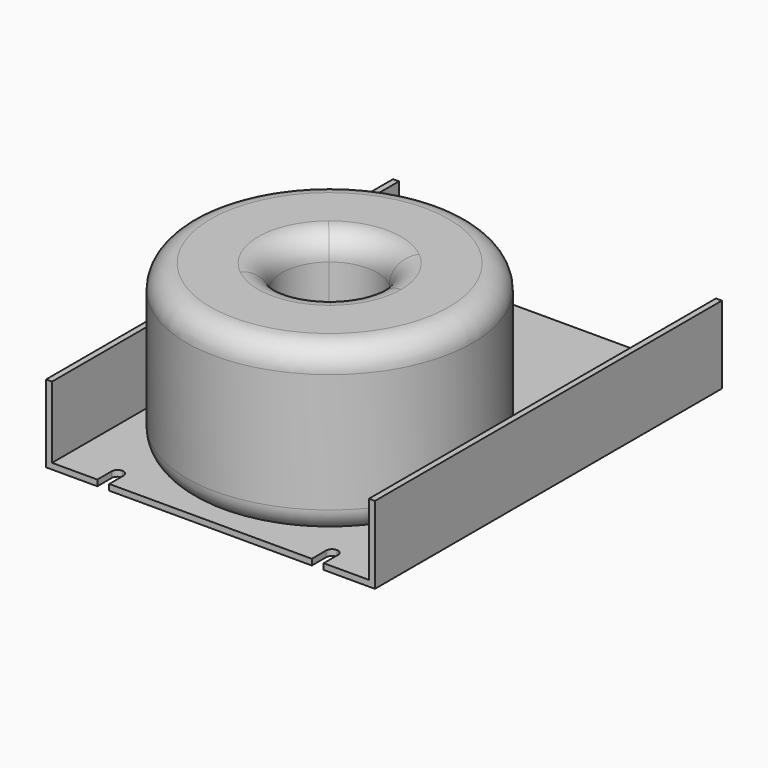
from build123d import *

# Parameters (mm, degrees)
F0_W     = 3.175
F0_H     = 231.14
F1_DEPTH = 3.175
F2_DEPTH = 38.1
F4_DEPTH = 88.9
F5_R     = 12.7


with BuildPart() as f1:
    # F0 (on Top) → F1 (new body)
    with BuildSketch(Plane.XY):
        with BuildLine():
            Line((172.085, 0), (3.175, 0))
            Line((3.175, 0), (3.175, -231.14))
            Line((3.175, -231.14), (27.305, -231.14))
            Line((27.305, -231.14), (27.305, -221.615))
            ThreePointArc((27.305, -221.615), (28.2349359697, -219.3699359697), (30.48, -218.44))
            Line((30.48, -218.44), (30.48, -85.09))
            ThreePointArc((30.48, -85.09), (28.2349359697, -79.6699359697), (33.655, -81.915))
            Line((33.655, -81.915), (87.63, -81.915))
            Line((87.63, -81.915), (141.605, -81.915))
            ThreePointArc((141.605, -81.915), (144.78, -78.74), (147.955, -81.915))
            ThreePointArc((147.955, -81.915), (147.0250640303, -84.1600640303), (144.78, -85.09))
            Line((144.78, -85.09), (144.78, -218.44))
            ThreePointArc((144.78, -218.44), (147.0250640303, -219.3699359697), (147.955, -221.615))
            Line((147.955, -221.615), (147.955, -231.14))
            Line((147.955, -231.14), (172.085, -231.14))
            Line((172.085, -231.14), (172.085, 0))
        make_face()
        with BuildLine():
            Line((30.48, -85.09), (30.48, -218.44))
            ThreePointArc((30.48, -218.44), (32.7250640303, -219.3699359697), (33.655, -221.615))
            Line((33.655, -221.615), (87.63, -221.615))
            Line((87.63, -221.615), (87.63, -81.915))
            Line((87.63, -81.915), (33.655, -81.915))
            ThreePointArc((33.655, -81.915), (32.7250640303, -84.1600640303), (30.48, -85.09))
        make_face()
        with BuildLine():
            ThreePointArc((141.605, -221.615), (142.5349359697, -219.3699359697), (144.78, -218.44))
            Line((144.78, -218.44), (144.78, -85.09))
            ThreePointArc((144.78, -85.09), (142.5349359697, -84.1600640303), (141.605, -81.915))
            Line((141.605, -81.915), (87.63, -81.915))
            Line((87.63, -81.915), (87.63, -221.615))
            Line((87.63, -221.615), (141.605, -221.615))
        make_face()
        with Locations((1.5875, -115.57)):
            Rectangle(F0_W, F0_H)
        with Locations((173.6725, -115.57)):
            Rectangle(F0_W, F0_H)
        Polygon((87.63, -221.615), (33.655, -221.615), (33.655, -231.14), (141.605, -231.14), (141.605, -221.615), align=None)
    extrude(amount=-F1_DEPTH)

    # F0 (on Top) → F2 (join)
    with BuildSketch(Plane.XY):
        with Locations((1.5875, -115.57)):
            Rectangle(F0_W, F0_H)
        with Locations((173.6725, -115.57)):
            Rectangle(F0_W, F0_H)
    extrude(amount=F2_DEPTH)


with BuildPart() as f4:
    # F3 (on face) → F4 (new body)
    with BuildSketch(Plane.XY):
        with BuildLine():
            Line((71.5457601275, -132.1064846002), (39.3772803824, -92.7894538007))
            ThreePointArc((39.3772803824, -92.7894538007), (11.43, -151.765), (39.3772803824, -210.7405461993))
            Line((39.3772803824, -210.7405461993), (71.5457601275, -171.4235153998))
            ThreePointArc((71.5457601275, -171.4235153998), (62.23, -151.765), (71.5457601275, -132.1064846002))
        make_face()
        with BuildLine():
            ThreePointArc((135.8827196176, -92.7894538007), (87.63, -75.565), (39.3772803824, -92.7894538007))
            Line((39.3772803824, -92.7894538007), (71.5457601275, -132.1064846002))
            ThreePointArc((71.5457601275, -132.1064846002), (87.63, -126.365), (103.7142398725, -132.1064846002))
            Line((103.7142398725, -132.1064846002), (135.8827196176, -92.7894538007))
        make_face()
        with BuildLine():
            ThreePointArc((163.83, -151.765), (156.489629809, -119.1338586996), (135.8827196176, -92.7894538007))
            Line((135.8827196176, -92.7894538007), (103.7142398725, -132.1064846002))
            ThreePointArc((103.7142398725, -132.1064846002), (110.5832099363, -140.8879528999), (113.03, -151.765))
            ThreePointArc((113.03, -151.765), (110.5832099363, -162.6420471001), (103.7142398725, -171.4235153998))
            Line((103.7142398725, -171.4235153998), (135.8827196176, -210.7405461993))
            ThreePointArc((135.8827196176, -210.7405461993), (156.489629809, -184.3961413004), (163.83, -151.765))
        make_face()
        with BuildLine():
            Line((71.5457601275, -171.4235153998), (39.3772803824, -210.7405461993))
            ThreePointArc((39.3772803824, -210.7405461993), (87.63, -227.965), (135.8827196176, -210.7405461993))
            Line((135.8827196176, -210.7405461993), (103.7142398725, -171.4235153998))
            ThreePointArc((103.7142398725, -171.4235153998), (87.63, -177.165), (71.5457601275, -171.4235153998))
        make_face()
    extrude(amount=F4_DEPTH)

    # F5
    f5_edges = [f4.edges().sort_by_distance(p)[0] for p in [
        (135.88272, -92.789454, 88.9),
        (71.54576, -132.106485, 88.9),
        (135.88272, -92.789454, 0),
        (71.54576, -132.106485, 0),
    ]]
    fillet(f5_edges, radius=F5_R)


solid = Compound([f1.part, f4.part])
